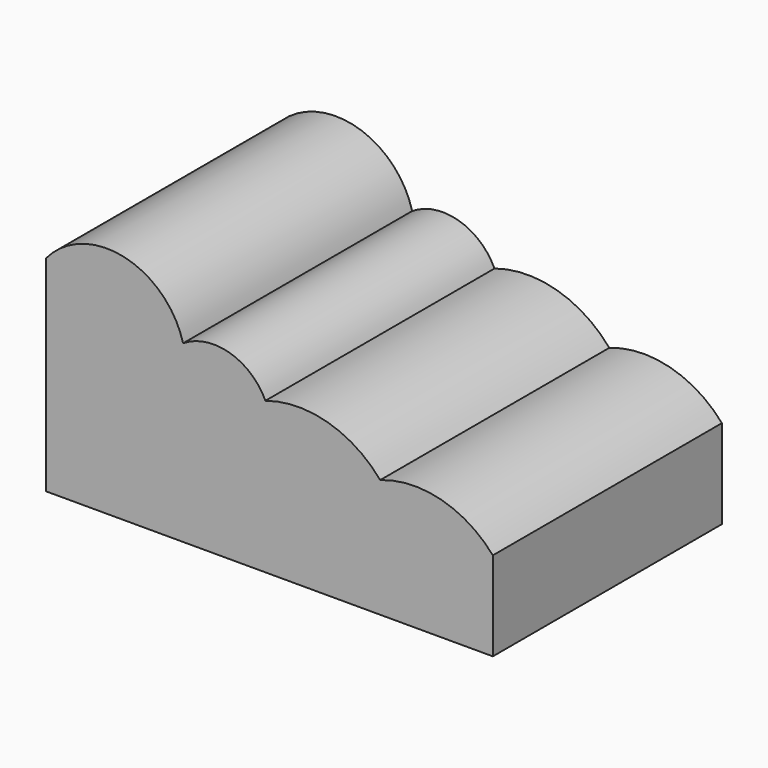
from build123d import *

# Parameters (mm, degrees)
F0_W     = 118.894532
F0_H     = 65.283902
F1_DEPTH = 76.2
F3_DEPTH = 152.4


with BuildPart() as f1:
    # F0 (on Front) → F1 (new body)
    with BuildSketch(Plane.XZ):
        with Locations((59.447266, 32.641951)):
            Rectangle(F0_W, F0_H)
    extrude(amount=F1_DEPTH)

    # F2 (on Front) → F3 (cut)
    with BuildSketch(Plane.XZ):
        with BuildLine():
            ThreePointArc((88.918693, 31.561092), (105.780146, 32.067962), (119.759224, 22.625988))
            Line((119.759224, 22.625988), (123.437092, 71.18877))
            Line((123.437092, 71.18877), (-3.07319, 71.18877))
            Line((-3.07319, 71.18877), (0, 54.619428))
            ThreePointArc((0, 54.619428), (20.685701, 61.676492), (36.460984, 46.549007))
            ThreePointArc((36.460984, 46.549007), (48.85118, 48.344346), (58.366407, 40.207967))
            ThreePointArc((58.366407, 40.207967), (74.961645, 40.54533), (88.918693, 31.561092))
        make_face()
    extrude(amount=F3_DEPTH, mode=Mode.SUBTRACT)


solid = f1.part
